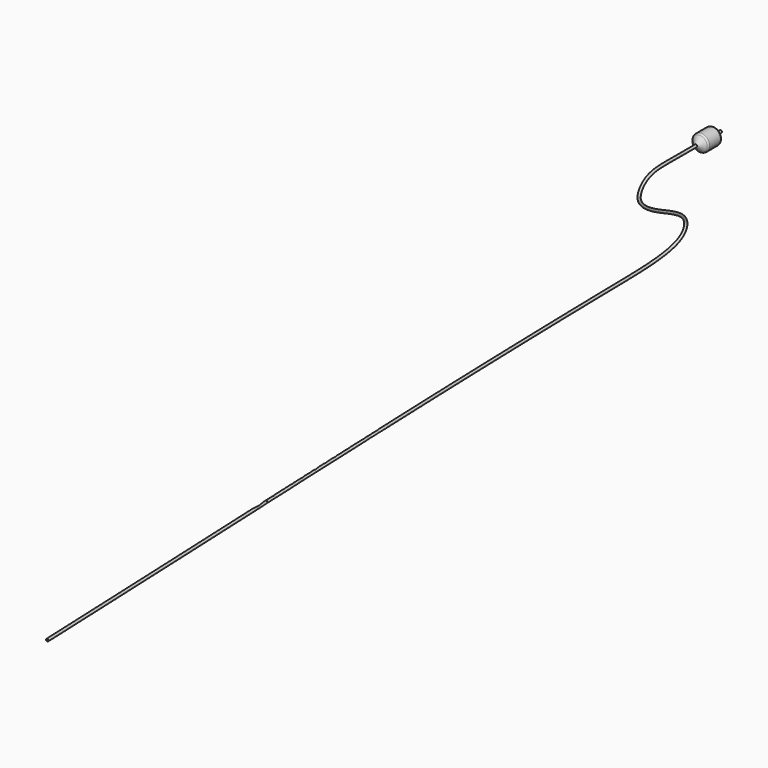
from build123d import *

# Parameters (mm, degrees)
F0_R      = 1.905
F0_R_2    = 1.016
F1_DEPTH  = 76.2
F2_SIZE   = 0.5588
F3_R      = 0.127
F11_R     = 2.4749408374
F11_R_2   = 2.083201125
F12_DEPTH = 11.02868
F16_R     = 1.905
F16_R_2   = 1.016


with BuildPart() as f1:
    # F0 (on Front) → F1 (new body)
    with BuildSketch(Plane.XZ):
        Circle(F0_R)
        Circle(F0_R_2, mode=Mode.SUBTRACT)
    extrude(amount=F1_DEPTH)

    # F2
    f2_edges = [f1.edges().sort_by_distance(p)[0] for p in [
        (-1.016, 0, 0),
    ]]
    chamfer(f2_edges, length=F2_SIZE)

    # F3
    f3_edges = [f1.edges().sort_by_distance(p)[0] for p in [
        (-1.905, 0, 0),
    ]]
    fillet(f3_edges, radius=F3_R)

    # F17: sweep along a path in F14
    with BuildLine(Plane.YZ.offset(-1.905)) as f17_path:
        add(Plane.YZ.offset(-1.905) * Edge.make_bspline(
            [(-76.2, 0), (-108.8839271623, 0), (-137.5145494078, 1.9095750533), (-162.7588656208, -29.0617588044), (-121.1685242243, -58.5213062186), (-60.093422809, -81.9225237403), (-70.8373456599, -121.8742858307), (-228.5065134548, -123.3973047897), (-547.4211043578, -130.7457532023), (-963.0679353466, -147.6318244366), (-1171.5842120541, -155.3362988934), (-1265.8532640827, -158.7955519265)],
            knots=[0, 0, 0, 0, 0.0800822284, 0.1293528055, 0.1959605344, 0.2749182235, 0.3204337102, 0.4358669023, 0.6201662355, 0.8264275013, 1, 1, 1, 1], degree=3))
    # F16 (on offset) → F17 (sweep)
    with BuildSketch(Plane.XZ.offset(76.2)):
        Circle(F16_R)
        Circle(F16_R_2, mode=Mode.SUBTRACT)
    sweep(path=f17_path.line)


with BuildPart() as f6:
    # F5 (on Right) → F6 (revolve)
    with BuildSketch(Plane.YZ):
        with BuildLine():
            Line((-39.3702547761, 11.0091483356), (-46.355, 1.905))
            Line((-46.355, 1.905), (-46.3229858918, 1.905))
            Line((-46.3229858918, 1.905), (-39.3577276668, 10.9837483356))
            ThreePointArc((-39.3577276668, 10.9837483356), (-38.020124332, 12.0816202779), (-36.3348728907, 12.4746))
            Line((-36.3348728907, 12.4746), (-16.3701271093, 12.4746))
            ThreePointArc((-16.3701271093, 12.4746), (-14.684875668, 12.0816202779), (-13.3472723332, 10.9837483356))
            Line((-13.3472723332, 10.9837483356), (-6.3820141082, 1.905))
            Line((-6.3820141082, 1.905), (-6.35, 1.905))
            Line((-6.35, 1.905), (-13.3347452239, 11.0091483356))
            ThreePointArc((-13.3347452239, 11.0091483356), (-14.6723485586, 12.1070202779), (-16.3576, 12.5))
            Line((-16.3576, 12.5), (-36.3474, 12.5))
            ThreePointArc((-36.3474, 12.5), (-38.0326514414, 12.1070202779), (-39.3702547761, 11.0091483356))
        make_face()
    revolve(axis=Axis((0, -159.1454893351, 0), (0, -1, 0)))


with BuildPart() as f12:
    # F11 (on offset) → F12 (new body, through all)
    with BuildSketch(Plane.XZ.offset(20.41652)):
        Circle(F11_R)
        Circle(F11_R_2, mode=Mode.SUBTRACT)
    extrude(amount=F12_DEPTH)


solid = Compound([f1.part, f6.part, f12.part])
